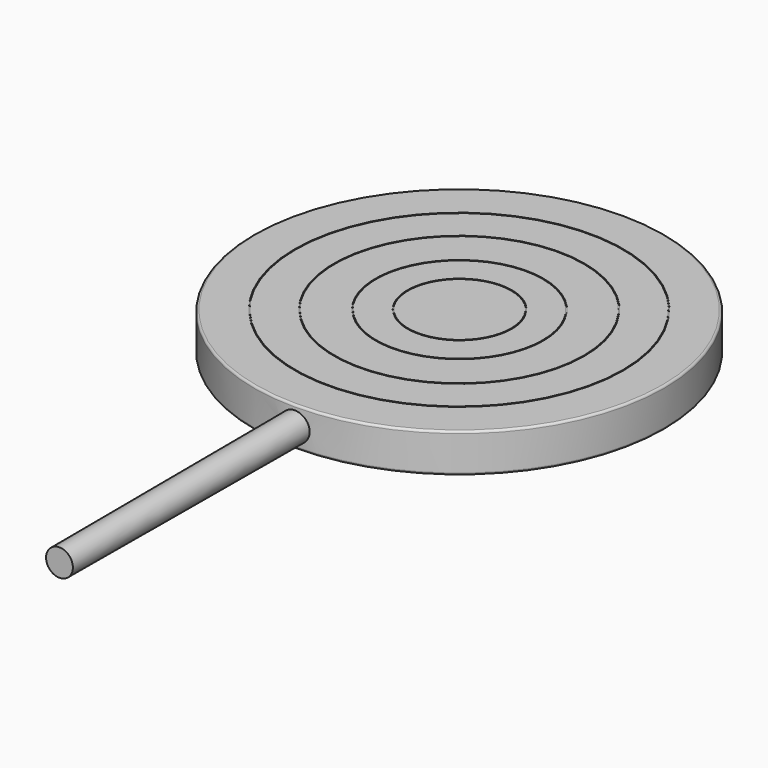
from build123d import *

# Parameters (mm, degrees)
F0_R      = 47.5
F1_DEPTH  = 4.5
F2_R      = 3.5
F3_DEPTH  = 114
F3_TAPER  = 0.2
F4_R      = 0.5
F5_R      = 38.002083118
F5_R_2    = 37.802083118
F6_DEPTH  = 0.2
F7_R      = 28.9679765701
F7_R_2    = 28.767975761
F8_DEPTH  = 0.2
F9_R      = 19.4251779467
F9_R_2    = 19.2251771527
F10_DEPTH = 0.2
F11_R     = 12.0890308172
F11_R_2   = 11.8890312486
F12_DEPTH = 0.2
F14_ANGLE = -90


with BuildPart() as f1:
    # F0 (on Front) → F1 (new body, symmetric)
    with BuildSketch(Plane.XZ):
        with Locations((0, 1.5224246528)):
            Circle(F0_R)
    extrude(amount=F1_DEPTH, both=True)

    # F2 (on Top) → F3 (join)
    with BuildSketch(Plane.XY):
        Circle(F2_R)
    extrude(amount=-F3_DEPTH, taper=F3_TAPER)

    # F4
    f4_edges = [f1.edges().sort_by_distance(p)[0] for p in [
        (-47.5, -4.5, 1.522425),
        (-47.5, 4.5, 1.522425),
    ]]
    fillet(f4_edges, radius=F4_R)

    # F5 (on face) → F6 (cut)
    with BuildSketch(Plane.XZ.offset(4.5)):
        with Locations((0, 1.5224246528)):
            Circle(F5_R)
        with Locations((0, 1.5224246528)):
            Circle(F5_R_2, mode=Mode.SUBTRACT)
    extrude(amount=-F6_DEPTH, mode=Mode.SUBTRACT)

    # F7 (on face) → F8 (cut)
    with BuildSketch(Plane.XZ.offset(4.5)):
        with Locations((0, 1.5499041183)):
            Circle(F7_R)
        with Locations((0, 1.5499041183)):
            Circle(F7_R_2, mode=Mode.SUBTRACT)
    extrude(amount=-F8_DEPTH, mode=Mode.SUBTRACT)

    # F9 (on face) → F10 (cut)
    with BuildSketch(Plane.XZ.offset(4.5)):
        with Locations((0, 1.613457338)):
            Circle(F9_R)
        with Locations((0, 1.613457338)):
            Circle(F9_R_2, mode=Mode.SUBTRACT)
    extrude(amount=-F10_DEPTH, mode=Mode.SUBTRACT)

    # F11 (on face) → F12 (cut)
    with BuildSketch(Plane.XZ.offset(4.5)):
        with Locations((0, 1.6672129277)):
            Circle(F11_R)
        with Locations((0, 1.6672129277)):
            Circle(F11_R_2, mode=Mode.SUBTRACT)
    extrude(amount=-F12_DEPTH, mode=Mode.SUBTRACT)


with BuildPart() as f1_1:
    # F14: moved
    add(f1.part.rotate(Axis((14.7541314363, 0, 0), (1, 0, 0)), F14_ANGLE))


solid = f1_1.part
